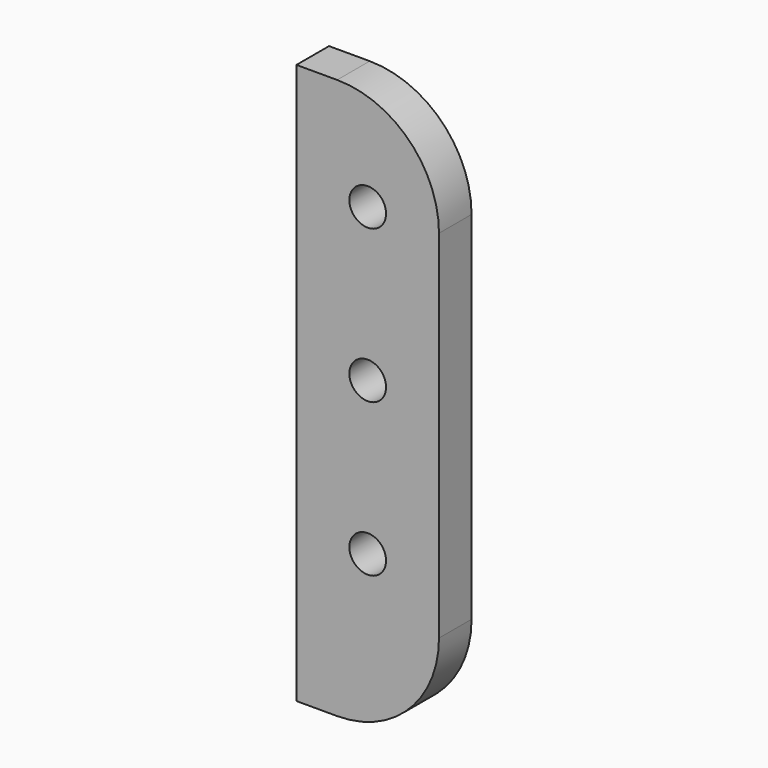
from build123d import *

# Parameters (mm, degrees)
CYLINDER023_R     = 1.8
CYLINDER023_DEPTH = 40
ARRAY002_Z_COUNT  = 3
ARRAY002_Z_PITCH  = 15
BOX_W             = 14
BOX_H             = 4
BOX_DEPTH         = 55
FILLET003_R       = 10


with BuildPart() as attachment_hole_array:
    # Cylinder023 → Cylinder023 (new body)
    with BuildSketch(Plane(origin=(19, -20, 0), x_dir=(1, 0, 0), z_dir=(0, 1, 0))):
        Circle(CYLINDER023_R)
    extrude(amount=CYLINDER023_DEPTH)

    # Array002 Z: attachment hole array ×3


with BuildPart() as attachment_hole_array_1:
    add(attachment_hole_array.part)
    with Locations(*[(0, 0, i * ARRAY002_Z_PITCH) for i in range(1, ARRAY002_Z_COUNT)]):
        add(attachment_hole_array.part)


with BuildPart() as attachment_hole_array_2:
    # Array002 placement: moved
    add(attachment_hole_array_1.part.moved(Location((0, 0, 15))))


with BuildPart() as attachment_cut:
    # Box → Box (new body)
    with BuildSketch(Plane(origin=(12, -2, 0), x_dir=(1, 0, 0), z_dir=(0, 0, 1))):
        with Locations((7, 2)):
            Rectangle(BOX_W, BOX_H)
    extrude(amount=BOX_DEPTH)

    # Fillet003
    fillet003_edges = [attachment_cut.edges().sort_by_distance(p)[0] for p in [
        (26, 0, 55),
        (26, 0, 0),
    ]]
    fillet(fillet003_edges, radius=FILLET003_R)

    # Cut004: cut attachment hole array
    add(attachment_hole_array_2.part, mode=Mode.SUBTRACT)


with BuildPart() as attachment_cut_1:
    # Cut004 placement: moved
    add(attachment_cut.part.moved(Location((0, 0, 4))))


solid = attachment_cut_1.part
